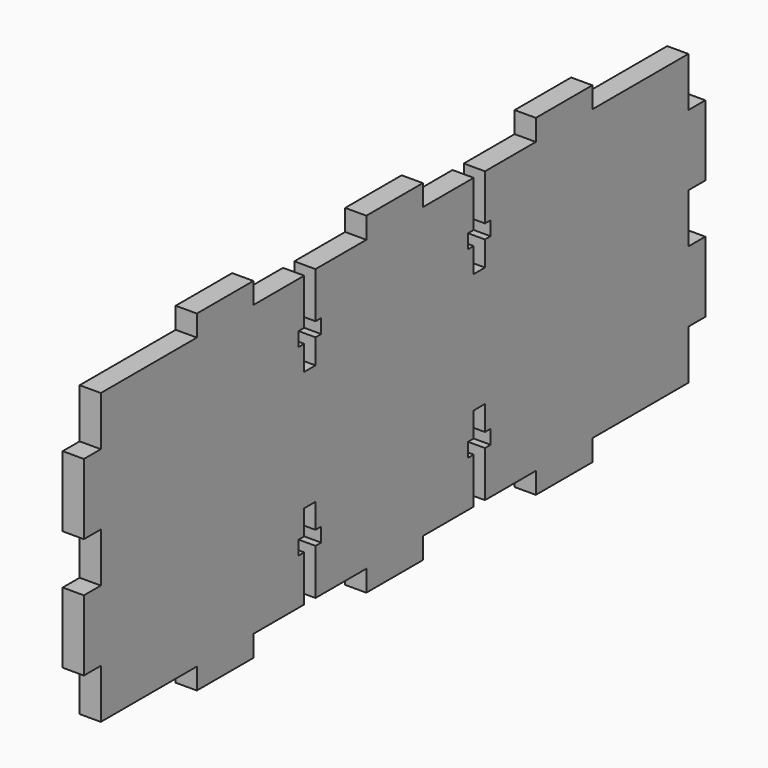
from build123d import *

# Parameters (mm, degrees)
F1_DEPTH = 3


with BuildPart() as f1:
    # F0 (on Right) → F1 (new body)
    with BuildSketch(Plane.YZ):
        Polygon((6.586962, 7), (6.586962, 0), (23.586962, 0), (23.586962, -3), (33.586962, -3), (33.586962, 0), (42.586962, 0), (42.586962, 6.5), (41.586962, 6.5), (41.586962, 8.5), (42.586962, 8.5), (42.586962, 12), (44.586962, 12), (44.586962, 8.5), (45.586962, 8.5), (45.586962, 6.5), (44.586962, 6.5), (44.586962, 0), (53.586962, 0), (53.586962, -3), (58.586962, -3), (63.586962, -3), (63.586962, 0), (72.586962, 0), (72.586962, 6.5), (71.586962, 6.5), (71.586962, 8.5), (72.586962, 8.5), (72.586962, 12), (74.586962, 12), (74.586962, 8.5), (75.586962, 8.5), (75.586962, 6.5), (74.586962, 6.5), (74.586962, 0), (83.586962, 0), (83.586962, -3), (93.586962, -3), (93.586962, 0), (110.586962, 0), (110.586962, 7), (113.586962, 7), (113.586962, 17), (110.586962, 17), (110.586962, 24), (113.586962, 24), (113.586962, 34), (110.586962, 34), (110.586962, 41), (93.586962, 41), (93.586962, 44), (83.586962, 44), (83.586962, 41), (74.586962, 41), (74.586962, 34.5), (75.586962, 34.5), (75.586962, 32.5), (74.586962, 32.5), (74.586962, 29), (72.586962, 29), (72.586962, 32.5), (71.586962, 32.5), (71.586962, 34.5), (72.586962, 34.5), (72.586962, 41), (63.586962, 41), (63.586962, 44), (58.586962, 44), (53.586962, 44), (53.586962, 41), (44.586962, 41), (44.586962, 34.5), (45.586962, 34.5), (45.586962, 32.5), (44.586962, 32.5), (44.586962, 29), (42.586962, 29), (42.586962, 32.5), (41.586962, 32.5), (41.586962, 34.5), (42.586962, 34.5), (42.586962, 41), (33.586962, 41), (33.586962, 44), (23.586962, 44), (23.586962, 41), (6.586962, 41), (6.586962, 34), (3.586962, 34), (3.586962, 24), (6.586962, 24), (6.586962, 17), (3.586962, 17), (3.586962, 7), align=None)
    extrude(amount=F1_DEPTH)


solid = f1.part
